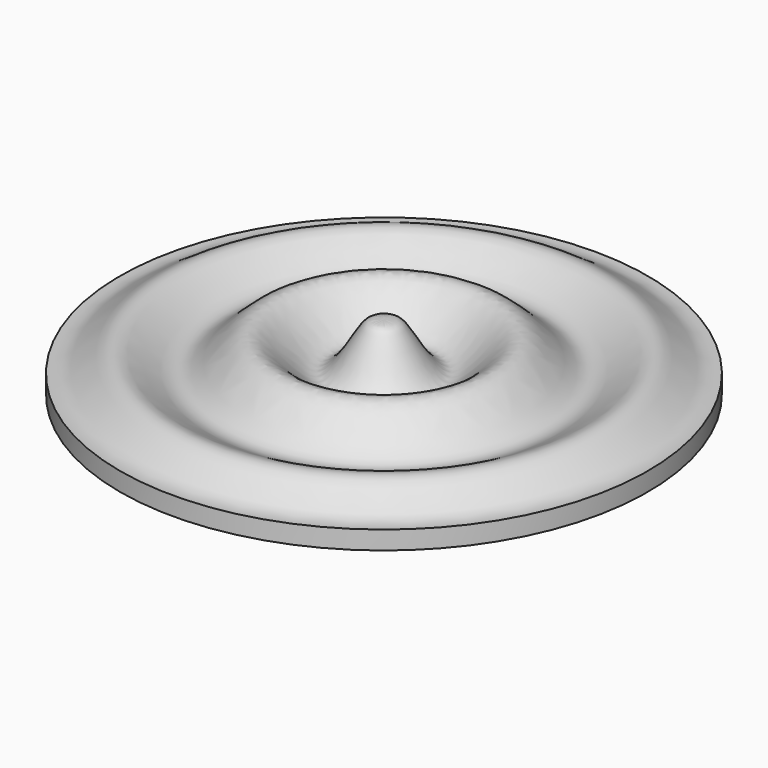
from build123d import *


with BuildPart() as f1:
    # F0 (on Right) → F1 (revolve)
    with BuildSketch(Plane.YZ):
        with BuildLine():
            Line((0, 15.875), (0, 0))
            Line((0, 0), (63.5, 0))
            Line((63.5, 0), (63.5, 4.4390394999))
            add(Edge.make_bspline(
                [(0, 15.875), (1.8484748188, 15.875), (4.8114509372, 16.4691058741), (12.1309079612, -3.4448768882), (25.7233035249, 20.7142655672), (37.4706858191, -2.3035004154), (51.4593845138, 15.4030251871), (57.9877029911, 3.4928237222), (63.5, 4.4390394999)],
                knots=[0, 0, 0, 0, 0.0999027477, 0.2742048856, 0.4602818957, 0.6463589059, 0.8231794529, 1, 1, 1, 1], degree=3))
        make_face()
    revolve(axis=Axis((0, 0, 9.525), (0, 0, 1)))


solid = f1.part
